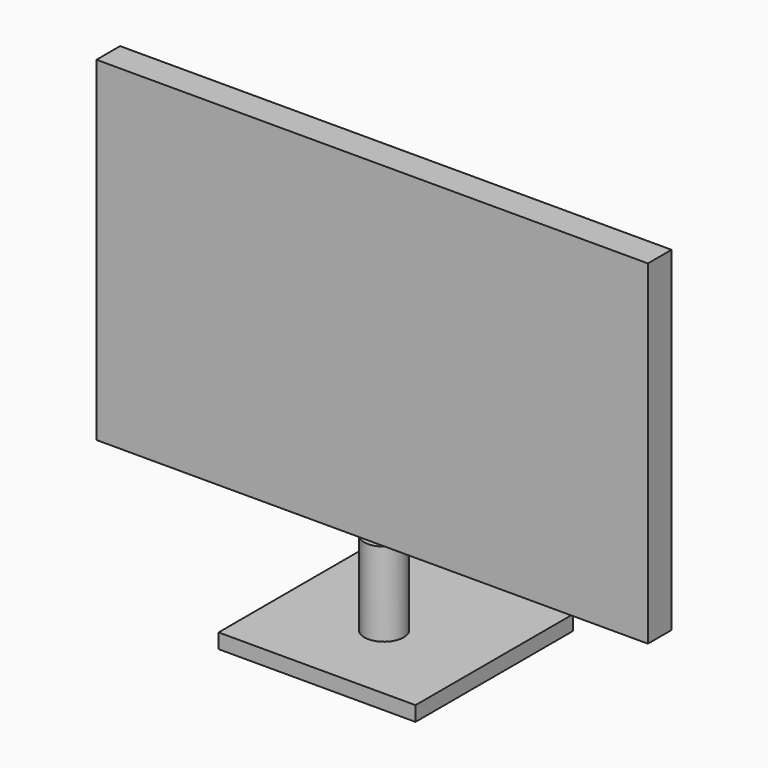
from build123d import *

# Parameters (mm, degrees)
BOX_W          = 56
BOX_H          = 3
BOX_DEPTH      = 34
BOX001_W       = 20
BOX001_H       = 20
BOX001_DEPTH   = 1.5
CYLINDER_R     = 2
CYLINDER_DEPTH = 9


with BuildPart() as pantalla:
    # Box → Box (new body)
    with BuildSketch(Plane(origin=(-28, 7, 10), x_dir=(1, 0, 0), z_dir=(0, 0, 1))):
        with Locations((28, 1.5)):
            Rectangle(BOX_W, BOX_H)
    extrude(amount=BOX_DEPTH)


with BuildPart() as base:
    # Box001 → Box001 (new body)
    with BuildSketch(Plane(origin=(-10, 0, 0), x_dir=(1, 0, 0), z_dir=(0, 0, 1))):
        with Locations((10, 10)):
            Rectangle(BOX001_W, BOX001_H)
    extrude(amount=BOX001_DEPTH)


with BuildPart() as cilindro:
    # Cylinder → Cylinder (new body)
    with BuildSketch(Plane(origin=(0, 8.5, 1), x_dir=(1, 0, 0), z_dir=(0, 0, 1))):
        Circle(CYLINDER_R)
    extrude(amount=CYLINDER_DEPTH)


solid = Compound([pantalla.part, base.part, cilindro.part])
